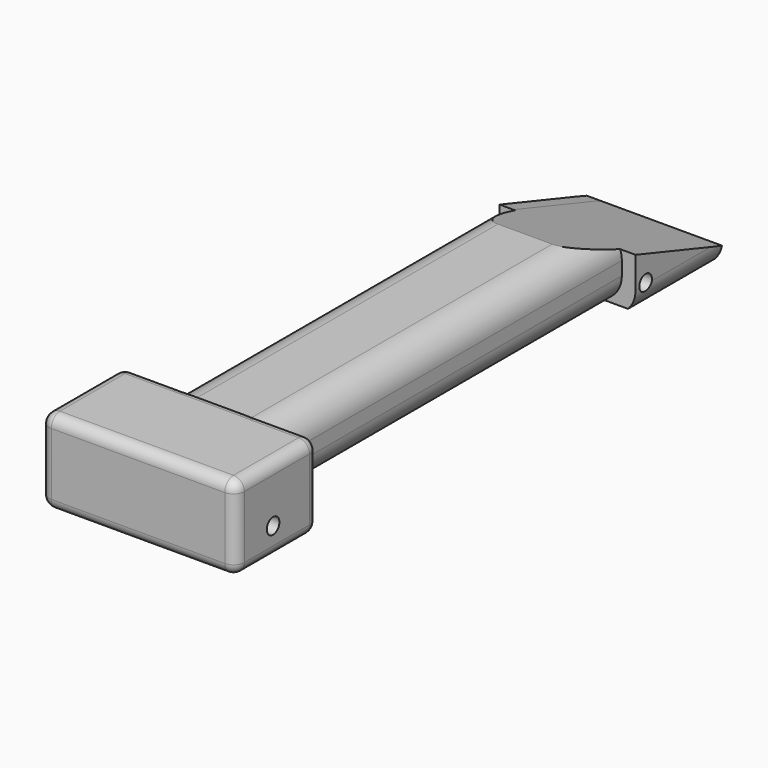
from build123d import *

# Parameters (mm, degrees)
F0_W      = 80
F0_H      = 12.5
F1_DEPTH  = 20
F2_R      = 5
F4_DEPTH  = 20
F5_R      = 5
F7_DEPTH  = 25
F9_DEPTH  = 25
F10_W     = 20
F10_H     = 0.8859829484
F11_DEPTH = 25
F13_DEPTH = 19
F14_R     = 2
F15_R     = 1.45
F16_DEPTH = 100


with BuildPart() as f1:
    # F0 (on Right) → F1 (new body)
    with BuildSketch(Plane.YZ):
        with Locations((-40, 6.25)):
            Rectangle(F0_W, F0_H)
    extrude(amount=F1_DEPTH)

    # F2
    f2_edges = [f1.edges().sort_by_distance(p)[0] for p in [
        (20, -40, 12.5),
        (20, -40, 0),
        (0, -40, 12.5),
        (0, -40, 0),
    ]]
    fillet(f2_edges, radius=F2_R)

    # F3 (on face) → F4 (join)
    with BuildSketch(Plane(origin=(0, 0, 0), x_dir=(-1, 0, 0), z_dir=(0, 1, 0))):
        Polygon((-22.5355339059, 14.0355339059), (-22.5355339059, 11.0355339059), (-22.5355339059, -1.5355339059), (-18.5355339059, -1.5355339059), (2.5355339059, -1.5355339059), (2.5355339059, 11.0355339059), (2.5355339059, 14.0355339059), align=None)
    extrude(amount=F4_DEPTH)

    # F5
    f5_edges = [f1.edges().sort_by_distance(p)[0] for p in [
        (22.535534, 10, 14.035534),
        (22.535534, 10, -1.535534),
        (-2.535534, 10, -1.535534),
        (-2.535534, 10, 14.035534),
    ]]
    fillet(f5_edges, radius=F5_R)

    # F6 (on Right) → F7 (cut)
    with BuildSketch(Plane.YZ):
        Polygon((20, 0), (0, 0), (0, -2.4886932224), (20, -2.4886932224), (23.4880913049, -2.4886932224), (23.4486758709, 14.381791465), (20, 14.381791465), (-15.4835612513, 14.381791465), (-9.843991138, 12.5039182603), (20, 2.5664176792), align=None)
    extrude(amount=F7_DEPTH, mode=Mode.SUBTRACT)

    # F8 (on face) → F9 (cut)
    with BuildSketch(Plane.YZ):
        Polygon((0, 9.2260501226), (20, 2.5664176792), (20, 13.3859829484), (0, 13.3859829484), align=None)
    extrude(amount=-F9_DEPTH, mode=Mode.SUBTRACT)

    # F10 (on face) → F11 (cut)
    with BuildSketch(Plane.YZ):
        with Locations((10, -0.4429914742)):
            Rectangle(F10_W, F10_H)
    extrude(amount=-F11_DEPTH, mode=Mode.SUBTRACT)

    # F12 (on face) → F13 (join)
    with BuildSketch(Plane.XZ.offset(80)):
        Polygon((-8, 12.5), (-8, 0), (-8, -1.5), (28, -1.5), (28, 0), (28, 14), (-8, 14), align=None)
    extrude(amount=F13_DEPTH)

    # F14
    f14_edges = [f1.edges().sort_by_distance(p)[0] for p in [
        (-8, -80, 6.25),
        (28, -89.5, 14),
        (-8, -89.5, 14),
        (10, -80, 14),
        (10, -99, 14),
        (28, -89.5, -1.5),
        (28, -99, 6.25),
        (28, -80, 6.25),
        (-8, -89.5, -1.5),
        (10, -80, -1.5),
        (10, -99, -1.5),
        (-8, -99, 6.25),
    ]]
    fillet(f14_edges, radius=F14_R)

    # F15 (on face) → F16 (cut)
    with BuildSketch(Plane.YZ.offset(28)):
        with Locations((-90.3749987483, 3.750000149)):
            Circle(F15_R)
        with Locations((2.3177627008, 3.750000149)):
            Circle(F15_R)
    extrude(amount=-F16_DEPTH, mode=Mode.SUBTRACT)


solid = f1.part
